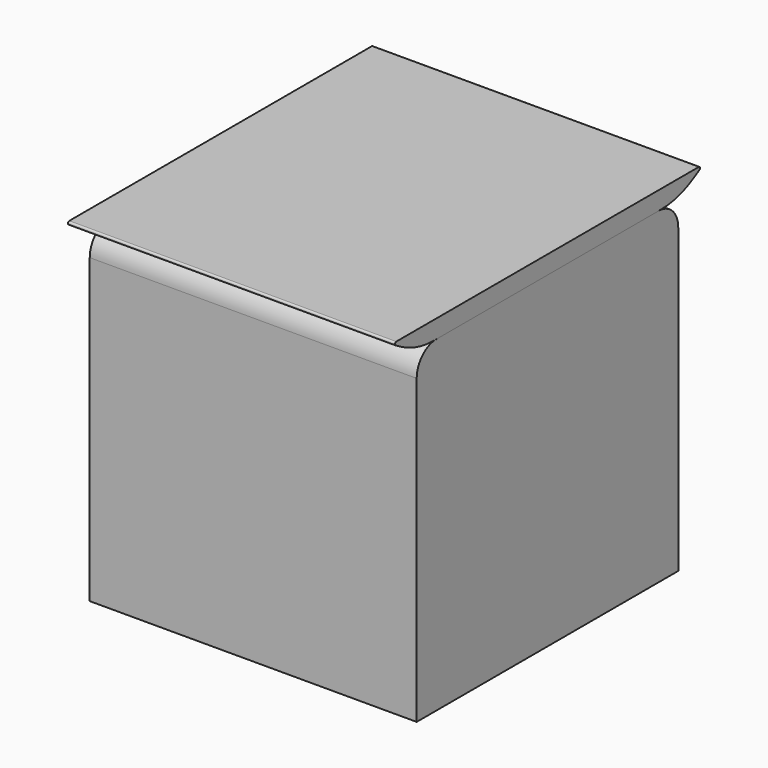
from build123d import *

# Parameters (mm, degrees)
F0_W     = 400
F0_H     = 400
F1_DEPTH = 200
F2_DEPTH = 200
F3_R     = 30
F4_R     = 100
F5_R     = 2


with BuildPart() as f1:
    # F0 (on Right) → F1 (new body, symmetric)
    with BuildSketch(Plane.YZ):
        with Locations((17.194282782, -18.9303885745)):
            Rectangle(F0_W, F0_H)
    extrude(amount=F1_DEPTH, both=True)

    # F3
    f3_edges = [f1.edges().sort_by_distance(p)[0] for p in [
        (0, -182.805717, 181.069611),
        (0, 217.194283, 181.069611),
    ]]
    fillet(f3_edges, radius=F3_R)


with BuildPart() as f2:
    # F0 (on Right) → F2 (new body, symmetric)
    with BuildSketch(Plane.YZ):
        Polygon((-221.5355506801, 203.4302912005), (-182.805717218, 181.0696114255), (217.194282782, 181.0696114255), (255.9241162441, 203.4302912005), align=None)
    extrude(amount=F2_DEPTH, both=True)

    # F4
    f4_edges = [f2.edges().sort_by_distance(p)[0] for p in [
        (0, 217.194283, 181.069611),
        (0, -182.805717, 181.069611),
    ]]
    fillet(f4_edges, radius=F4_R)

    # F5
    f5_edges = [f2.edges().sort_by_distance(p)[0] for p in [
        (0, 255.924116, 203.430291),
        (0, -221.535551, 203.430291),
    ]]
    fillet(f5_edges, radius=F5_R)


solid = Compound([f1.part, f2.part])
